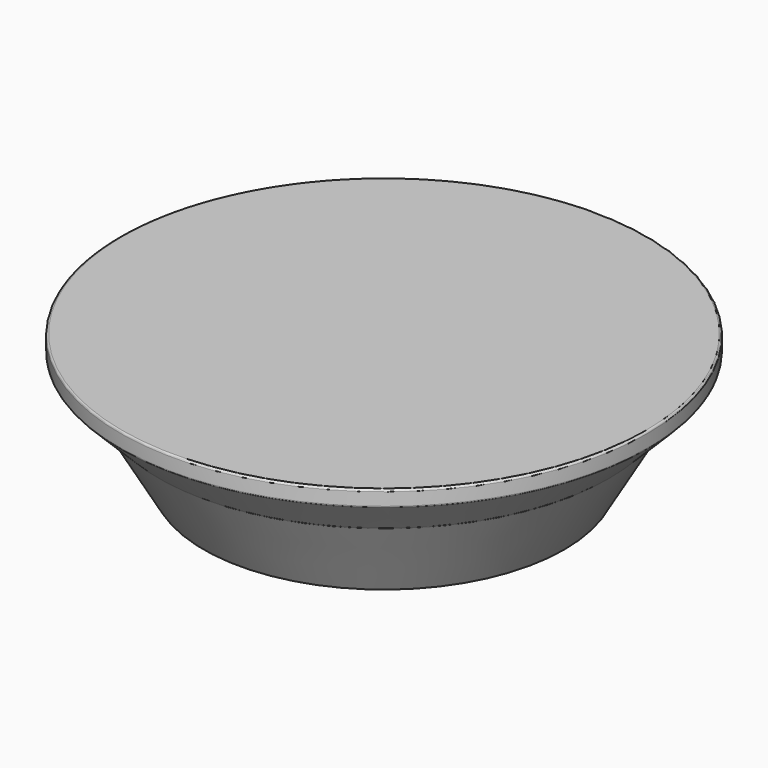
from build123d import *

# Parameters (mm, degrees)
F0_R     = 29
F1_DEPTH = 5
F1_TAPER = -45
F2_R     = 34
F3_DEPTH = 2
F4_R     = 29
F5_DEPTH = 10
F5_TAPER = 30
F6_R     = 17.5
F7_DEPTH = 10
F8_W     = 20
F8_H     = 3
F10_R    = 0.25


with BuildPart() as f1:
    # F0 (on Top) → F1 (new body)
    with BuildSketch(Plane.XY):
        Circle(F0_R)
    extrude(amount=F1_DEPTH, taper=F1_TAPER)

    # F2 (on face) → F3 (join)
    with BuildSketch(Plane.XY.offset(5)):
        Circle(F2_R)
    extrude(amount=F3_DEPTH)

    # F4 (on face) → F5 (join)
    with BuildSketch(Plane(origin=(0, 0, 0), x_dir=(1, 0, 0), z_dir=(0, 0, -1))):
        Circle(F4_R)
    extrude(amount=F5_DEPTH, taper=F5_TAPER)

    # F6 (on face) → F7 (cut)
    with BuildSketch(Plane(origin=(0, 0, -10), x_dir=(1, 0, 0), z_dir=(0, 0, -1))):
        Circle(F6_R)
    extrude(amount=-F7_DEPTH, mode=Mode.SUBTRACT)

    # F8 (on Front) → F9 (revolve, cut)
    with BuildSketch(Plane.XZ):
        with Locations((10, 1.5)):
            Rectangle(F8_W, F8_H)
    revolve(axis=Axis((0, 0, -7.2614504024), (0, 0, -1)), mode=Mode.SUBTRACT)

    # F10
    f10_edges = [f1.edges().sort_by_distance(p)[0] for p in [
        (-29, 0, 0),
        (-34, 0, 7),
        (-17.5, 0, -10),
        (-34, 0, 5),
        (-23.226497, 0, -10),
        (-20, 0, 0),
        (-17.5, 0, 0),
        (-20, 0, 3),
    ]]
    fillet(f10_edges, radius=F10_R)


solid = f1.part
